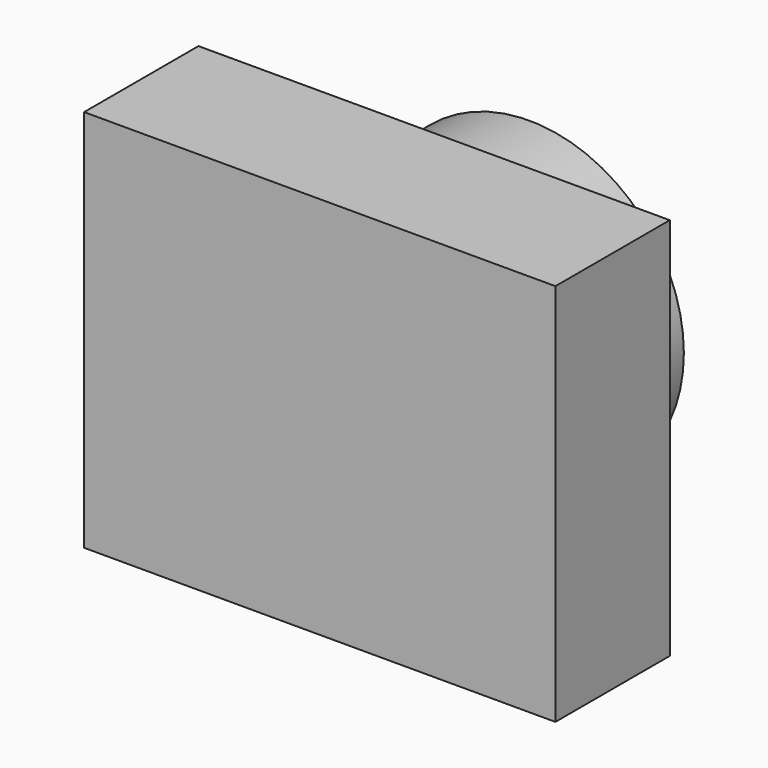
from build123d import *

# Parameters (mm, degrees)
F0_W     = 100.517206
F0_H     = 81.81633
F1_DEPTH = 30.48
F2_R     = 32.949499
F2_R_2   = 27.533167
F3_DEPTH = 25.4


with BuildPart() as f1:
    # F0 (on Front) → F1 (new body)
    with BuildSketch(Plane.XZ):
        Rectangle(F0_W, F0_H)
    extrude(amount=F1_DEPTH)

    # F2 (on Front) → F3 (join)
    with BuildSketch(Plane.XZ):
        Circle(F2_R)
        Circle(F2_R_2, mode=Mode.SUBTRACT)
    extrude(amount=-F3_DEPTH)


solid = f1.part
